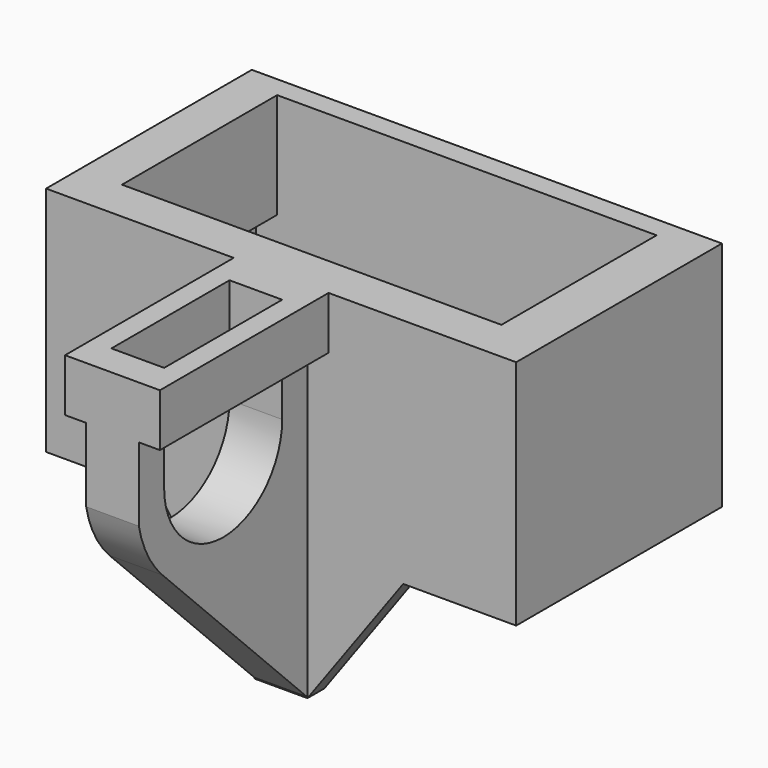
from build123d import *

# Parameters (mm, degrees)
SKETCH002_W   = 44.6
SKETCH002_H   = 24.4
SKETCH002_W_2 = 40.6
SKETCH002_H_2 = 20.4
PAD001_DEPTH  = 12
PAD003_DEPTH  = 2
PAD_DEPTH     = 5
SKETCH005_W   = 9
SKETCH005_H   = 22
SKETCH005_W_2 = 5
SKETCH005_H_2 = 17
PAD004_DEPTH  = 5
SKETCH012_W   = 44.6
SKETCH012_H   = 24.4
SKETCH012_W_2 = 36
SKETCH012_H_2 = 18.4
PAD011_DEPTH  = 10


with BuildPart() as part:
    # Sketch002 → Pad001 (new body)
    with BuildSketch(Plane.XY):
        with Locations((20.3, 10.2)):
            Rectangle(SKETCH002_W, SKETCH002_H)
        with Locations((20.3, 10.2)):
            Rectangle(SKETCH002_W_2, SKETCH002_H_2, mode=Mode.SUBTRACT)
    extrude(amount=PAD001_DEPTH)

    # Sketch004 → Pad003 (join)
    with BuildSketch(Plane.XZ):
        Polygon((0, 12), (17.8, -12.5), (22.8, -12.5), (40.6, 12), align=None)
    extrude(amount=PAD003_DEPTH)

    # Sketch → Pad (join)
    with BuildSketch(Plane(origin=(17.8, 0, 10), x_dir=(0, 1, 0), z_dir=(1, 0, 0))):
        with BuildLine():
            Line((-22, 12), (-22, 0))
            ThreePointArc((-22, 0), (-20.991352, -2.812026), (-19.211103, -5.211103))
            Line((-19.211103, -5.211103), (-2, -22.422205))
            Line((-2, -22.422205), (-2, 2))
            Line((-2, 12), (-2, 2))
            Line((-5, 12), (-2, 12))
            Line((-5, 2), (-5, 12))
            ThreePointArc((-19, 2), (-12, -5), (-5, 2))
            Line((-19, 12), (-19, 2))
            Line((-22, 12), (-19, 12))
        make_face()
    extrude(amount=PAD_DEPTH)

    # Sketch005 → Pad004 (join)
    with BuildSketch(Plane(origin=(17.8, 0, 22), x_dir=(1, 0, 0), z_dir=(0, 0, 1))):
        with Locations((2.5, -11)):
            Rectangle(SKETCH005_W, SKETCH005_H)
        with Locations((2.5, -10.5)):
            Rectangle(SKETCH005_W_2, SKETCH005_H_2, mode=Mode.SUBTRACT)
    extrude(amount=-PAD004_DEPTH)

    # Sketch012 → Pad011 (join)
    with BuildSketch(Plane.XY.offset(12)):
        with Locations((20.3, 10.2)):
            Rectangle(SKETCH012_W, SKETCH012_H)
        with Locations((20, 11.2)):
            Rectangle(SKETCH012_W_2, SKETCH012_H_2, mode=Mode.SUBTRACT)
    extrude(amount=PAD011_DEPTH)


solid = part.part
